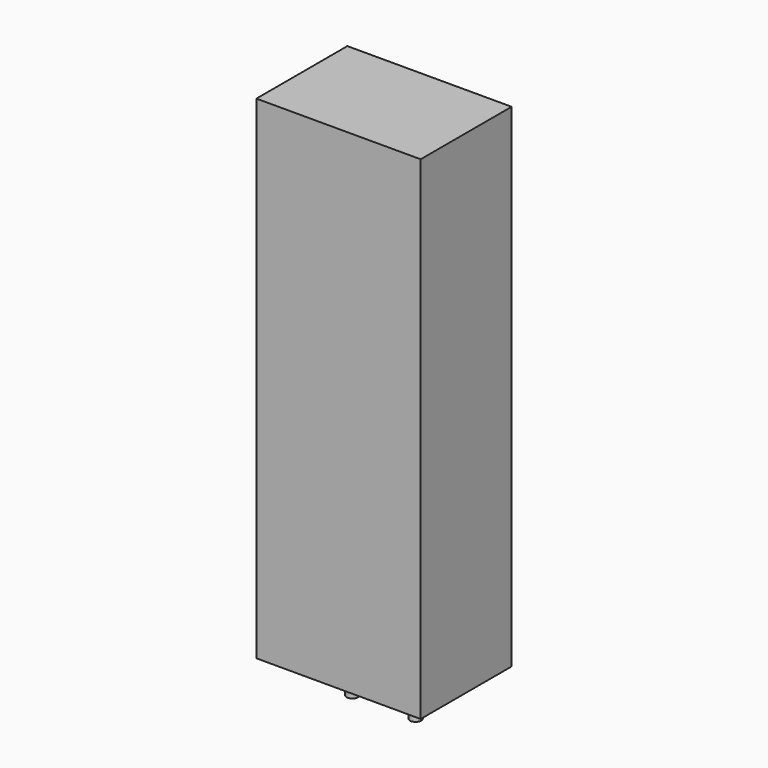
from build123d import *

# Parameters (mm, degrees)
SKETCH_W     = 13
SKETCH_H     = 9
PAD_DEPTH    = 39
SKETCH001_R  = 0.45
PAD001_DEPTH = 3.5


with BuildPart() as pad:
    # Sketch → Pad (new body)
    with BuildSketch(Plane.XY.offset(0.1)):
        with Locations((2.5, 0)):
            Rectangle(SKETCH_W, SKETCH_H)
    extrude(amount=PAD_DEPTH)


with BuildPart() as pad001:
    # Sketch001 → Pad001 (new body)
    with BuildSketch(Plane.XY.offset(0.5)):
        Circle(SKETCH001_R)
        with Locations((5, 0)):
            Circle(SKETCH001_R)
    extrude(amount=-PAD001_DEPTH)


solid = Compound([pad.part, pad001.part])
